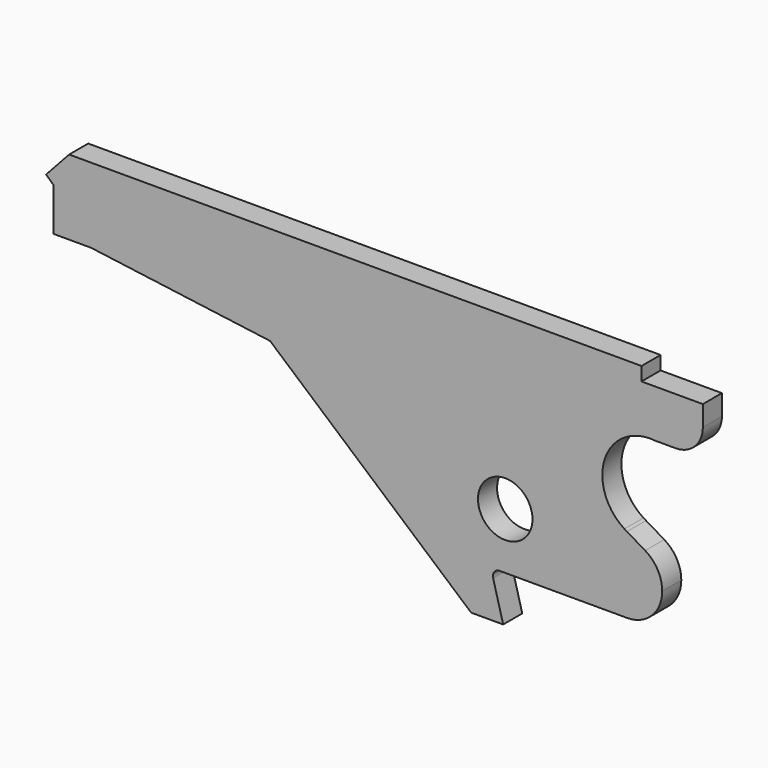
from build123d import *

# Parameters (mm, degrees)
F0_R     = 4
F1_DEPTH = 3.5


with BuildPart() as f1:
    # F0 (on Front) → F1 (new body)
    with BuildSketch(Plane.XZ):
        with BuildLine():
            Line((0, -2), (0, 0))
            Line((0, 0), (-84, 0))
            Line((-84, 0), (-87.3775810443, -3.6867256867))
            Line((-87.3775810443, -3.6867256867), (-86.2715633383, -4.7))
            Line((-86.2715633383, -4.7), (-86.2715633383, -11))
            Line((-86.2715633383, -11), (-80.7715633383, -11))
            Line((-80.7715633383, -11), (-54.5028455385, -14.493488966))
            Line((-54.5028455385, -14.493488966), (-25, -40))
            Line((-25, -40), (-20.3, -40))
            Line((-20.3, -40), (-21.7744337692, -34.4973382611))
            ThreePointArc((-21.7744337692, -34.4973382611), (-21.6018612832, -33.629757787), (-20.8085079429, -33.238519216))
            Line((-20.8085079429, -33.238519216), (-2.1117333157, -33.238519216))
            ThreePointArc((-2.1117333157, -33.238519216), (1.5298666074, -31.7301191391), (3.0382666843, -28.088519216))
            ThreePointArc((3.0382666843, -28.088519216), (2.3691920714, -25.5500536017), (0.5358171017, -23.6711696954))
            Line((0.5358171017, -23.6711696954), (-2.1348951645, -22.0868976918))
            ThreePointArc((-2.1348951645, -22.0868976918), (-2.3213319674, -21.9801363334), (-2.5044046725, -21.8677038925))
            ThreePointArc((-2.5044046725, -21.8677038925), (-5.3568950896, -13.6469284918), (2, -9))
            Line((2, -9), (5, -9))
            ThreePointArc((5, -9), (7.8284271247, -7.8284271247), (9, -5))
            Line((9, -5), (9, -2))
            Line((9, -2), (0, -2))
        make_face()
        with Locations((-20, -25)):
            Circle(F0_R, mode=Mode.SUBTRACT)
        with BuildLine():
            Line((0, -2), (0, 0))
            Line((0, 0), (-84, 0))
            Line((-84, 0), (-87.3775810443, -3.6867256867))
            Line((-87.3775810443, -3.6867256867), (-86.2715633383, -4.7))
            Line((-86.2715633383, -4.7), (-86.2715633383, -11))
            Line((-86.2715633383, -11), (-80.7715633383, -11))
            Line((-80.7715633383, -11), (-54.5028455385, -14.493488966))
            Line((-54.5028455385, -14.493488966), (-25, -40))
            Line((-25, -40), (-20.3, -40))
            Line((-20.3, -40), (-21.7744337692, -34.4973382611))
            ThreePointArc((-21.7744337692, -34.4973382611), (-21.6018612832, -33.629757787), (-20.8085079429, -33.238519216))
            Line((-20.8085079429, -33.238519216), (-2.1117333157, -33.238519216))
            ThreePointArc((-2.1117333157, -33.238519216), (1.5298666074, -31.7301191391), (3.0382666843, -28.088519216))
            ThreePointArc((3.0382666843, -28.088519216), (2.3691920714, -25.5500536017), (0.5358171017, -23.6711696954))
            Line((0.5358171017, -23.6711696954), (-2.1348951645, -22.0868976918))
            ThreePointArc((-2.1348951645, -22.0868976918), (-2.3213319674, -21.9801363334), (-2.5044046725, -21.8677038925))
            ThreePointArc((-2.5044046725, -21.8677038925), (-5.3568950896, -13.6469284918), (2, -9))
            Line((2, -9), (5, -9))
            ThreePointArc((5, -9), (7.8284271247, -7.8284271247), (9, -5))
            Line((9, -5), (9, -2))
            Line((9, -2), (0, -2))
        make_face()
        with Locations((-20, -25)):
            Circle(F0_R, mode=Mode.SUBTRACT)
        with BuildLine():
            Line((-2.1348951645, -22.0868976918), (-2.5044046725, -21.8677038925))
            ThreePointArc((-2.5044046725, -21.8677038925), (-2.3213319674, -21.9801363334), (-2.1348951645, -22.0868976918))
        make_face()
        with BuildLine():
            Line((0, -2), (0, 0))
            Line((0, 0), (-84, 0))
            Line((-84, 0), (-87.3775810443, -3.6867256867))
            Line((-87.3775810443, -3.6867256867), (-86.2715633383, -4.7))
            Line((-86.2715633383, -4.7), (-86.2715633383, -11))
            Line((-86.2715633383, -11), (-80.7715633383, -11))
            Line((-80.7715633383, -11), (-54.5028455385, -14.493488966))
            Line((-54.5028455385, -14.493488966), (-25, -40))
            Line((-25, -40), (-20.3, -40))
            Line((-20.3, -40), (-21.7744337692, -34.4973382611))
            ThreePointArc((-21.7744337692, -34.4973382611), (-21.6018612832, -33.629757787), (-20.8085079429, -33.238519216))
            Line((-20.8085079429, -33.238519216), (-2.1117333157, -33.238519216))
            ThreePointArc((-2.1117333157, -33.238519216), (1.5298666074, -31.7301191391), (3.0382666843, -28.088519216))
            ThreePointArc((3.0382666843, -28.088519216), (2.3691920714, -25.5500536017), (0.5358171017, -23.6711696954))
            Line((0.5358171017, -23.6711696954), (-2.1348951645, -22.0868976918))
            ThreePointArc((-2.1348951645, -22.0868976918), (-2.3213319674, -21.9801363334), (-2.5044046725, -21.8677038925))
            ThreePointArc((-2.5044046725, -21.8677038925), (-5.3568950896, -13.6469284918), (2, -9))
            Line((2, -9), (5, -9))
            ThreePointArc((5, -9), (7.8284271247, -7.8284271247), (9, -5))
            Line((9, -5), (9, -2))
            Line((9, -2), (0, -2))
        make_face()
        with Locations((-20, -25)):
            Circle(F0_R, mode=Mode.SUBTRACT)
    extrude(amount=F1_DEPTH)


solid = f1.part
